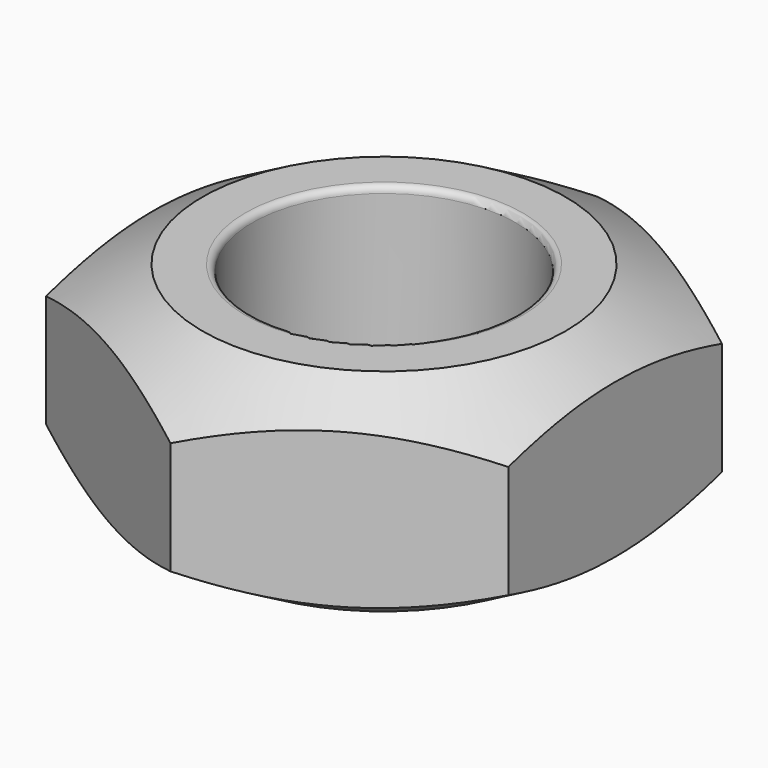
from build123d import *

# Parameters (mm, degrees)
F0_R     = 2
F1_DEPTH = 3.2
F4_R     = 0.1
F5_R     = 0.1


with BuildPart() as f1:
    # F0 (on Top) → F1 (new body)
    with BuildSketch(Plane.XY):
        Polygon((-3.5, -2.020726), (0, -4.041452), (3.5, -2.020726), (3.5, 2.020726), (0, 4.041452), (-3.5, 2.020726), align=None)
        Circle(F0_R, mode=Mode.SUBTRACT)
    extrude(amount=F1_DEPTH)

    # F2 (on Front) → F3 (revolve, cut)
    with BuildSketch(Plane.XZ):
        Polygon((4.614809, 3.2), (3.5, 3.2), (4.614809, 2.556365), align=None)
        Polygon((4.614809, 2.556365), (3.5, 3.2), (2.75, 3.2), (4.614809, 2.123352), align=None)
        Polygon((5.364809, 3.2), (4.614809, 3.2), (4.614809, 2.556365), (5.364809, 2.123352), align=None)
        Polygon((4.614809, 0.643635), (3.5, 0), (4.614809, 0), align=None)
        Polygon((2.75, 0), (3.5, 0), (4.614809, 0.643635), (4.614809, 1.076648), align=None)
        Polygon((4.614809, 0.643635), (4.614809, 0), (5.364809, 0), (5.364809, 1.076648), align=None)
    revolve(axis=Axis((0, 0, 1.6), (0, 0, 1)), mode=Mode.SUBTRACT)

    # F4
    f4_edges = [f1.edges().sort_by_distance(p)[0] for p in [
        (-2, 0, 3.2),
    ]]
    fillet(f4_edges, radius=F4_R)

    # F5
    f5_edges = [f1.edges().sort_by_distance(p)[0] for p in [
        (-2, 0, 0),
    ]]
    fillet(f5_edges, radius=F5_R)


solid = f1.part
